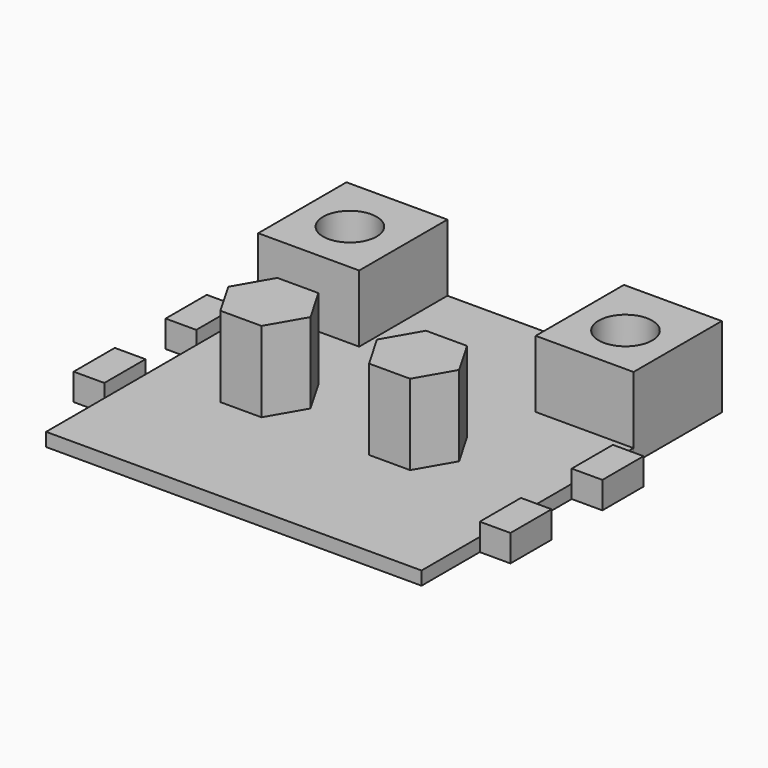
from build123d import *

# Parameters (mm, degrees)
F0_W     = 47.818441
F0_H     = 52.235608
F0_R     = 12.7
F0_W_2   = 46.34274
F1_DEPTH = 38.1
F2_DEPTH = 44.45
F3_DEPTH = 6.35
F0_W_3   = 14.515924
F0_H_2   = 24.352949
F0_W_4   = 14.515923
F4_DEPTH = 12.7


with BuildPart() as f1:
    # F0 (on Top) → F1 (new body)
    with BuildSketch(Plane.XY):
        with Locations((-53.711533, 110.303605)):
            Rectangle(F0_W, F0_H)
        with Locations((-54.425206, 109.456658)):
            Circle(F0_R, mode=Mode.SUBTRACT)
        with Locations((77.007876, 110.229509)):
            Rectangle(F0_W_2, F0_H)
        with Locations((77.112868, 108.160719)):
            Circle(F0_R, mode=Mode.SUBTRACT)
    extrude(amount=F1_DEPTH)


with BuildPart() as f2:
    # F0 (on Top) → F2 (new body)
    with BuildSketch(Plane.XY):
        Polygon((-22.667437, 51.139291), (-42.120956, 51.139291), (-51.847716, 34.29205), (-42.120956, 17.444808), (-22.667437, 17.444808), (-12.940678, 34.29205), align=None)
        Polygon((46.665434, 52.435234), (27.211915, 52.435234), (17.485156, 35.587993), (27.211915, 18.740751), (46.665434, 18.740751), (56.392194, 35.587993), align=None)
    extrude(amount=F2_DEPTH)


with BuildPart() as f3:
    # F0 (on Top) → F3 (new body)
    with BuildSketch(Plane.XY):
        Polygon((100.179246, 136.421409), (-29.802313, 136.421409), (-29.802313, 84.185801), (-77.620754, 84.185801), (-77.620754, 71.874358), (-77.620754, 47.521409), (-77.620754, 17.444808), (-77.620754, -6.908141), (-77.620754, -41.378591), (100.179246, -41.378591), (100.179246, -6.908141), (100.179246, 17.444808), (100.179246, 47.521409), (100.179246, 71.874358), (100.179246, 84.111705), (53.836506, 84.111705), (53.836506, 136.347313), (100.179246, 136.347313), align=None)
        Polygon((-51.847716, 34.29205), (-42.120956, 51.139291), (-22.667437, 51.139291), (-12.940678, 34.29205), (-22.667437, 17.444808), (-42.120956, 17.444808), align=None, mode=Mode.SUBTRACT)
        Polygon((17.485156, 35.587993), (27.211915, 52.435234), (46.665434, 52.435234), (56.392194, 35.587993), (46.665434, 18.740751), (27.211915, 18.740751), align=None, mode=Mode.SUBTRACT)
    extrude(amount=F3_DEPTH)

    # F0 (on Top) → F4 (join)
    with BuildSketch(Plane.XY):
        with Locations((-84.878716, 5.268333)):
            Rectangle(F0_W_3, F0_H_2)
        with Locations((-84.878716, 59.697884)):
            Rectangle(F0_W_3, F0_H_2)
        with Locations((107.437207, 5.268333)):
            Rectangle(F0_W_4, F0_H_2)
        with Locations((107.437207, 59.697884)):
            Rectangle(F0_W_4, F0_H_2)
    extrude(amount=F4_DEPTH)


solid = Compound([f1.part, f2.part, f3.part])
